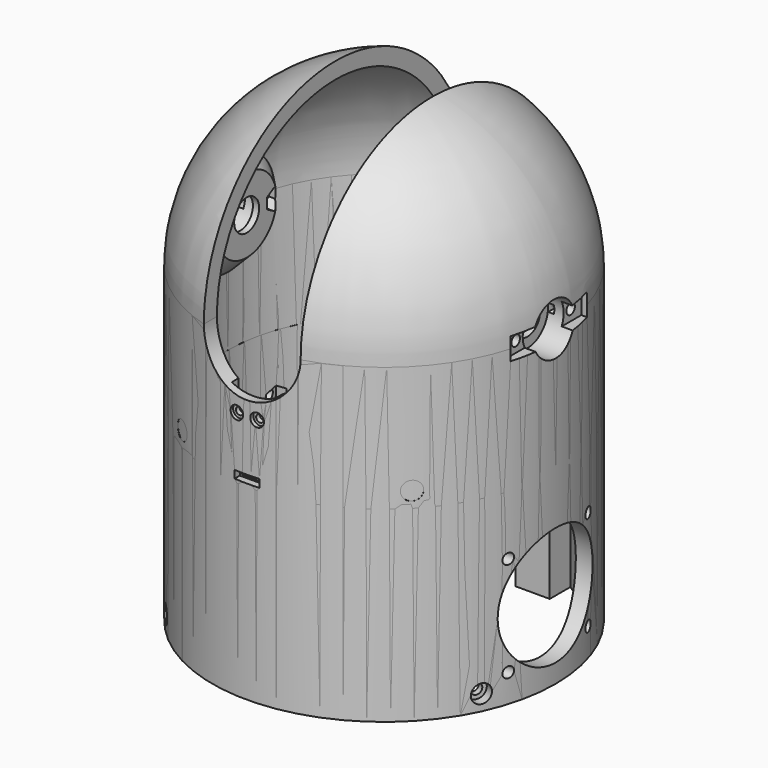
from build123d import *

# Parameters (mm, degrees)
CYLINDER_R               = 2.95
CYLINDER_DEPTH           = 7
CYLINDER001_R            = 1.7
CYLINDER001_DEPTH        = 30
PRISM_DEPTH              = 12
CYLINDER1003_R           = 8.2
CYLINDER1003_DEPTH       = 15
CLONE139_PLACEMENT_ANGLE = 30
BOX251_W                 = 30.6
BOX251_H                 = 7
BOX251_DEPTH             = 4
CYLINDER1015_R           = 5
CYLINDER1015_DEPTH       = 10
CLONE140_PLACEMENT_ANGLE = 30
CYLINDER1061_R           = 2.1
CYLINDER1061_DEPTH       = 7
CYLINDER1062_R           = 1.2
CYLINDER1062_DEPTH       = 30
CLONE444_PITCH_ANGLE     = -90
CLONE443_PITCH_ANGLE     = -90
CLONE445_PITCH_ANGLE     = -90
CYLINDER1064_R           = 19
CYLINDER1064_DEPTH       = 20
CLONE442_PITCH_ANGLE     = -90
CLONE_PITCH_ANGLE        = -90
CLONE446_PITCH_ANGLE     = -90
CLONE447_PITCH_ANGLE     = -90
CLONE448_PITCH_ANGLE     = -90
BOX270_W                 = 8
BOX270_H                 = 2.5
BOX270_DEPTH             = 2.5
BOX271_W                 = 6.5
BOX271_H                 = 3.5
BOX271_DEPTH             = 1.5
CLONE439_ROLL_ANGLE      = -90
BOX269_W                 = 14
BOX269_H                 = 10
BOX269_DEPTH             = 15
CLONE438_ROLL_ANGLE      = -90
CLONE281_PITCH_ANGLE     = 90
CLONE281_PLACEMENT_ANGLE = 45.000049
CLONE282_PITCH_ANGLE     = 90
CLONE282_PLACEMENT_ANGLE = -134.999951
CLONE283_PITCH_ANGLE     = 90
CLONE283_PLACEMENT_ANGLE = -24.999953
CLONE284_PITCH_ANGLE     = 90
CLONE284_PLACEMENT_ANGLE = 155.000022
PAD038_DEPTH             = 55
PAD037_DEPTH             = 55
PAD036_DEPTH             = 55
CLONE279_ROLL_ANGLE      = 90
CLONE279_PLACEMENT_ANGLE = 90
CLONE280_ROLL_ANGLE      = -90
CLONE280_PLACEMENT_ANGLE = 90
CLONE278_PLACEMENT_ANGLE = 180
PAD035_DEPTH             = 57.5
PAD002_DEPTH             = 2.7
CLONE453_PITCH_ANGLE     = -90
CLONE453_PLACEMENT_ANGLE = -44
CLONE457_PITCH_ANGLE     = -90
CLONE457_PLACEMENT_ANGLE = 62
CLONE456_PITCH_ANGLE     = -90
CLONE456_PLACEMENT_ANGLE = 136
CLONE455_PITCH_ANGLE     = -90
CLONE455_PLACEMENT_ANGLE = -118
CLONE458_PITCH_ANGLE     = -90
CLONE458_PLACEMENT_ANGLE = -44
CLONE460_PITCH_ANGLE     = -90
CLONE460_PLACEMENT_ANGLE = 136
CLONE459_PITCH_ANGLE     = -90
CLONE459_PLACEMENT_ANGLE = -118
CLONE461_PITCH_ANGLE     = -90
CLONE461_PLACEMENT_ANGLE = 62
BOX272_W                 = 23
BOX272_H                 = 17
BOX272_DEPTH             = 15.5
CYLINDER1068_R           = 50
CYLINDER1068_DEPTH       = 15.5
BOX_W                    = 23
BOX_H                    = 13
BOX_DEPTH                = 15.5
CYLINDER1067_R           = 50
CYLINDER1067_DEPTH       = 15.5
CLONE451_PLACEMENT_ANGLE = 180
CLONE452_PLACEMENT_ANGLE = 180
CYLINDER1066_R           = 60
CYLINDER1066_DEPTH       = 95
CLONE464_PITCH_ANGLE     = 90
CLONE464_PLACEMENT_ANGLE = -118
CLONE463_PITCH_ANGLE     = 90
CLONE463_PLACEMENT_ANGLE = 62
CLONE465_PITCH_ANGLE     = 90
CLONE465_PLACEMENT_ANGLE = 136
CLONE462_PITCH_ANGLE     = 90
CLONE462_PLACEMENT_ANGLE = -44
CYLINDER1065_R           = 60
CYLINDER1065_DEPTH       = 60


with BuildPart() as m3bolthead:
    # Cylinder → Cylinder (new body)
    with BuildSketch(Plane.XY):
        Circle(CYLINDER_R)
    extrude(amount=CYLINDER_DEPTH)


with BuildPart() as m3bolt:
    # Cylinder001 → Cylinder001 (new body)
    with BuildSketch(Plane.XY.offset(6)):
        Circle(CYLINDER001_R)
    extrude(amount=CYLINDER001_DEPTH)

    # Fusion: union M3BoltHead
    add(m3bolthead.part)


with BuildPart() as m3nut:
    # Prism → Prism (new body)
    with BuildSketch(Plane.XY):
        Polygon((3.35, 0), (1.675, 2.901185), (-1.675, 2.901185), (-3.35, 0), (-1.675, -2.901185), (1.675, -2.901185), align=None)
    extrude(amount=PRISM_DEPTH)


with BuildPart() as obj1:
    # Sketch016 → Revolution003 (revolve)
    with BuildSketch(Plane.XY):
        Polygon((0, 0), (0, 18), (6, 12), (6, 0), align=None)
    revolve(axis=Axis((0, 0, 0), (1, 0, 0)))


with BuildPart() as obj2:
    # Cylinder1003 → Cylinder1003 (new body)
    with BuildSketch(Plane.XY):
        Circle(CYLINDER1003_R)
    extrude(amount=CYLINDER1003_DEPTH)


with BuildPart() as clone_of_m3nut005:
    # Clone139 base: copy of M3Nut
    add(m3nut.part)


with BuildPart() as clone_of_m3nut005_1:
    # Clone139 placement: moved
    add(clone_of_m3nut005.part.moved(Location((11, 0, 7))).rotate(Axis((11, 0, 7), (0, 0, 1)), CLONE139_PLACEMENT_ANGLE))


with BuildPart() as cube015:
    # Box251 → Box251 (new body)
    with BuildSketch(Plane(origin=(-15.3, -3.5, 0), x_dir=(1, 0, 0), z_dir=(0, 0, 1))):
        with Locations((15.3, 3.5)):
            Rectangle(BOX251_W, BOX251_H)
    extrude(amount=BOX251_DEPTH)


with BuildPart() as clone_of_m3bolt039:
    # Clone137 base: copy of M3Bolt
    add(m3bolt.part)


with BuildPart() as clone_of_m3bolt039_1:
    # Clone137 placement: moved
    add(clone_of_m3bolt039.part.moved(Location((11, 0, -4))))


with BuildPart() as clone_of_m3bolt040:
    # Clone138 base: copy of M3Bolt
    add(m3bolt.part)


with BuildPart() as clone_of_m3bolt040_1:
    # Clone138 placement: moved
    add(clone_of_m3bolt040.part.moved(Location((-11, 0, -4))))


with BuildPart() as cylinder021:
    # Cylinder1015 → Cylinder1015 (new body)
    with BuildSketch(Plane.XY.offset(4)):
        Circle(CYLINDER1015_R)
    extrude(amount=CYLINDER1015_DEPTH)


with BuildPart() as obj3:
    # Clone136 base: copy of obj2
    add(obj2.part)


with BuildPart() as obj3_1:
    # Clone136 placement: moved
    add(obj3.part.moved(Location((0, 0, -6))))


with BuildPart() as obj4:
    # Clone140 base: copy of M3Nut
    add(m3nut.part)


with BuildPart() as obj4_1:
    # Clone140 placement: moved
    add(obj4.part.moved(Location((-11, 0, 7))).rotate(Axis((-11, 0, 7), (0, 0, 1)), CLONE140_PLACEMENT_ANGLE))

    # Fusion062: union Clone of M3Nut005, Cube015, Clone of M3Bolt039, Clone of M3Bolt040, Cylinder021, obj3
    add(clone_of_m3nut005_1.part)
    add(cube015.part)
    add(clone_of_m3bolt039_1.part)
    add(clone_of_m3bolt040_1.part)
    add(cylinder021.part)
    add(obj3_1.part)


with BuildPart() as m2bolthead:
    # Cylinder1061 → Cylinder1061 (new body)
    with BuildSketch(Plane.XY):
        Circle(CYLINDER1061_R)
    extrude(amount=CYLINDER1061_DEPTH)


with BuildPart() as m2bolt:
    # Cylinder1062 → Cylinder1062 (new body)
    with BuildSketch(Plane.XY.offset(6)):
        Circle(CYLINDER1062_R)
    extrude(amount=CYLINDER1062_DEPTH)

    # Fusion158: union M2BoltHead
    add(m2bolthead.part)


with BuildPart() as clone_of_m3bolt100:
    # Clone444 base: copy of M3Bolt
    add(m3bolt.part)


with BuildPart() as clone_of_m3bolt100_1:
    # Clone444 pitch: moved
    add(clone_of_m3bolt100.part.rotate(Axis((0, 0, 0), (0, 1, 0)), CLONE444_PITCH_ANGLE))


with BuildPart() as clone_of_m3bolt100_2:
    # Clone444 placement: moved
    add(clone_of_m3bolt100_1.part.moved(Location((78.76, -15.994718, 40.994755))))


with BuildPart() as clone_of_m3bolt099:
    # Clone443 base: copy of M3Bolt
    add(m3bolt.part)


with BuildPart() as clone_of_m3bolt099_1:
    # Clone443 pitch: moved
    add(clone_of_m3bolt099.part.rotate(Axis((0, 0, 0), (0, 1, 0)), CLONE443_PITCH_ANGLE))


with BuildPart() as clone_of_m3bolt099_2:
    # Clone443 placement: moved
    add(clone_of_m3bolt099_1.part.moved(Location((78.76, -15.994718, 9.005245))))


with BuildPart() as clone_of_m3bolt101:
    # Clone445 base: copy of M3Bolt
    add(m3bolt.part)


with BuildPart() as clone_of_m3bolt101_1:
    # Clone445 pitch: moved
    add(clone_of_m3bolt101.part.rotate(Axis((0, 0, 0), (0, 1, 0)), CLONE445_PITCH_ANGLE))


with BuildPart() as clone_of_m3bolt101_2:
    # Clone445 placement: moved
    add(clone_of_m3bolt101_1.part.moved(Location((78.76, 15.994793, 9.005245))))


with BuildPart() as cylinder022:
    # Cylinder1064 → Cylinder1064 (new body)
    with BuildSketch(Plane(origin=(42, 0, 25), x_dir=(0, 1, 0), z_dir=(1, 0, 0))):
        Circle(CYLINDER1064_R)
    extrude(amount=CYLINDER1064_DEPTH)


with BuildPart() as clone_of_m3bolt:
    # Clone442 base: copy of M3Bolt
    add(m3bolt.part)


with BuildPart() as clone_of_m3bolt_1:
    # Clone442 pitch: moved
    add(clone_of_m3bolt.part.rotate(Axis((0, 0, 0), (0, 1, 0)), CLONE442_PITCH_ANGLE))


with BuildPart() as clone_of_m3bolt_2:
    # Clone442 placement: moved
    add(clone_of_m3bolt_1.part.moved(Location((78.76, 15.994793, 40.994755))))


with BuildPart() as clone_of_m3nut:
    # Clone base: copy of M3Nut
    add(m3nut.part)


with BuildPart() as clone_of_m3nut_1:
    # Clone pitch: moved
    add(clone_of_m3nut.part.rotate(Axis((0, 0, 0), (0, 1, 0)), CLONE_PITCH_ANGLE))


with BuildPart() as clone_of_m3nut_2:
    # Clone placement: moved
    add(clone_of_m3nut_1.part.moved(Location((49.76, 15.994793, 9.005245))))


with BuildPart() as clone_of_m3nut007:
    # Clone446 base: copy of M3Nut
    add(m3nut.part)


with BuildPart() as clone_of_m3nut007_1:
    # Clone446 pitch: moved
    add(clone_of_m3nut007.part.rotate(Axis((0, 0, 0), (0, 1, 0)), CLONE446_PITCH_ANGLE))


with BuildPart() as clone_of_m3nut007_2:
    # Clone446 placement: moved
    add(clone_of_m3nut007_1.part.moved(Location((49.76, -15.994718, 9.005245))))


with BuildPart() as clone_of_m3nut008:
    # Clone447 base: copy of M3Nut
    add(m3nut.part)


with BuildPart() as clone_of_m3nut008_1:
    # Clone447 pitch: moved
    add(clone_of_m3nut008.part.rotate(Axis((0, 0, 0), (0, 1, 0)), CLONE447_PITCH_ANGLE))


with BuildPart() as clone_of_m3nut008_2:
    # Clone447 placement: moved
    add(clone_of_m3nut008_1.part.moved(Location((49.76, 15.994793, 40.994755))))


with BuildPart() as fanholes:
    # Clone448 base: copy of M3Nut
    add(m3nut.part)


with BuildPart() as fanholes_1:
    # Clone448 pitch: moved
    add(fanholes.part.rotate(Axis((0, 0, 0), (0, 1, 0)), CLONE448_PITCH_ANGLE))


with BuildPart() as fanholes_2:
    # Clone448 placement: moved
    add(fanholes_1.part.moved(Location((49.76, -15.994718, 40.994755))))

    # Fusion169: union Clone of M3Bolt100, Clone of M3Bolt099, Clone of M3Bolt101, Cylinder022, Clone of M3Bolt, Clone of M3Nut, Clone of M3Nut007, Clone of M3Nut008
    add(clone_of_m3bolt100_2.part)
    add(clone_of_m3bolt099_2.part)
    add(clone_of_m3bolt101_2.part)
    add(cylinder022.part)
    add(clone_of_m3bolt_2.part)
    add(clone_of_m3nut_2.part)
    add(clone_of_m3nut007_2.part)
    add(clone_of_m3nut008_2.part)


with BuildPart() as part_mirroring:
    # Part__Mirroring: instance of FanHoles
    add(fanholes_2.part.mirror(Plane(origin=(0, 0, 0), x_dir=(0, -1, 0), z_dir=(1, 0, 0))))


with BuildPart() as fusion170:
    # Fusion170 base: copy of FanHoles
    add(fanholes_2.part)

    # Fusion170: union Part__Mirroring
    add(part_mirroring.part)


with BuildPart() as cube032:
    # Box270 → Box270 (new body)
    with BuildSketch(Plane.XY):
        with Locations((4, 1.25)):
            Rectangle(BOX270_W, BOX270_H)
    extrude(amount=BOX270_DEPTH)


with BuildPart() as fusion168:
    # Box271 → Box271 (new body)
    with BuildSketch(Plane(origin=(0.75, 2, 0.5), x_dir=(1, 0, 0), z_dir=(0, 0, 1))):
        with Locations((3.25, 1.75)):
            Rectangle(BOX271_W, BOX271_H)
    extrude(amount=BOX271_DEPTH)

    # Fusion168: union Cube032
    add(cube032.part)


with BuildPart() as fusion168_1:
    # Fusion168 placement: moved
    add(fusion168.part.moved(Location((-4, -55.25, 61))))


with BuildPart() as clone439:
    # Clone439 base: copy of M2Bolt
    add(m2bolt.part)


with BuildPart() as clone439_1:
    # Clone439 roll: moved
    add(clone439.part.rotate(Axis((0, 0, 0), (1, 0, 0)), CLONE439_ROLL_ANGLE))


with BuildPart() as clone439_2:
    # Clone439 placement: moved
    add(clone439_1.part.moved(Location((3.25, -60.75, 79.9))))


with BuildPart() as cube031:
    # Box269 → Box269 (new body)
    with BuildSketch(Plane(origin=(-7, -52.25, 72), x_dir=(1, 0, 0), z_dir=(0, 0, 1))):
        with Locations((7, 5)):
            Rectangle(BOX269_W, BOX269_H)
    extrude(amount=BOX269_DEPTH)


with BuildPart() as fusion164:
    # Clone438 base: copy of M2Bolt
    add(m2bolt.part)


with BuildPart() as fusion164_1:
    # Clone438 roll: moved
    add(fusion164.part.rotate(Axis((0, 0, 0), (1, 0, 0)), CLONE438_ROLL_ANGLE))


with BuildPart() as fusion164_2:
    # Clone438 placement: moved
    add(fusion164_1.part.moved(Location((-3.25, -60.75, 79.9))))

    # Fusion164: union Clone439, Cube031
    add(clone439_2.part)
    add(cube031.part)


with BuildPart() as clone_of_m3bolt095:
    # Clone281 base: copy of M3Bolt
    add(m3bolt.part)


with BuildPart() as clone_of_m3bolt095_1:
    # Clone281 pitch: moved
    add(clone_of_m3bolt095.part.rotate(Axis((0, 0, 0), (0, 1, 0)), CLONE281_PITCH_ANGLE))


with BuildPart() as clone_of_m3bolt095_2:
    # Clone281 placement: moved
    add(clone_of_m3bolt095_1.part.moved(Location((-41.719293, -41.719293, 5))).rotate(Axis((-41.719293, -41.719293, 5), (0, 0, 1)), CLONE281_PLACEMENT_ANGLE))


with BuildPart() as clone_of_m3bolt096:
    # Clone282 base: copy of M3Bolt
    add(m3bolt.part)


with BuildPart() as clone_of_m3bolt096_1:
    # Clone282 pitch: moved
    add(clone_of_m3bolt096.part.rotate(Axis((0, 0, 0), (0, 1, 0)), CLONE282_PITCH_ANGLE))


with BuildPart() as clone_of_m3bolt096_2:
    # Clone282 placement: moved
    add(clone_of_m3bolt096_1.part.moved(Location((41.719293, 41.719293, 5))).rotate(Axis((41.719293, 41.719293, 5), (0, 0, 1)), CLONE282_PLACEMENT_ANGLE))


with BuildPart() as clone_of_m3bolt097:
    # Clone283 base: copy of M3Bolt
    add(m3bolt.part)


with BuildPart() as clone_of_m3bolt097_1:
    # Clone283 pitch: moved
    add(clone_of_m3bolt097.part.rotate(Axis((0, 0, 0), (0, 1, 0)), CLONE283_PITCH_ANGLE))


with BuildPart() as clone_of_m3bolt097_2:
    # Clone283 placement: moved
    add(clone_of_m3bolt097_1.part.moved(Location((-53.472192, 24.934482, 5))).rotate(Axis((-53.472192, 24.934482, 5), (0, 0, 1)), CLONE283_PLACEMENT_ANGLE))


with BuildPart() as fusion099:
    # Clone284 base: copy of M3Bolt
    add(m3bolt.part)


with BuildPart() as fusion099_1:
    # Clone284 pitch: moved
    add(fusion099.part.rotate(Axis((0, 0, 0), (0, 1, 0)), CLONE284_PITCH_ANGLE))


with BuildPart() as fusion099_2:
    # Clone284 placement: moved
    add(fusion099_1.part.moved(Location((53.472192, -24.934482, 5))).rotate(Axis((53.472192, -24.934482, 5), (0, 0, 1)), CLONE284_PLACEMENT_ANGLE))

    # Fusion099: union Clone of M3Bolt095, Clone of M3Bolt096, Clone of M3Bolt097
    add(clone_of_m3bolt095_2.part)
    add(clone_of_m3bolt096_2.part)
    add(clone_of_m3bolt097_2.part)


with BuildPart() as pad038:
    # Sketch055 → Pad038 (new body)
    with BuildSketch(Plane.XY):
        Polygon((-24.1, 45.35), (-19.1, 45.35), (-19.1, 40.35), (-24.1, 40.35), (-24.1, 35.35), (-27.9, 35.35), (-27.9, 43), align=None)
        Polygon((27.9, -35.35), (24.1, -35.35), (24.1, -40.35), (19.1, -40.35), (19.1, -45.35), (24.1, -45.35), (27.9, -43), align=None)
    extrude(amount=PAD038_DEPTH)


with BuildPart() as pad037:
    # Sketch054 → Pad037 (new body)
    with BuildSketch(Plane.XY):
        Polygon((-32, 39.5), (-32, 29.5), (-26.041232, 34.5), align=None)
        Polygon((12.041232, 42.5), (18, 47.5), (18, 37.5), align=None)
        Polygon((-18, -37.5), (-18, -47.5), (-12.041232, -42.5), align=None)
        Polygon((32, -29.5), (32, -39.5), (26.041232, -34.5), align=None)
    extrude(amount=PAD037_DEPTH)


with BuildPart() as pad036:
    # Sketch053 → Pad036 (new body)
    with BuildSketch(Plane.XY):
        with BuildLine():
            ThreePointArc((-27.9, 42.09323), (-33.764088, 37.553114), (-38.9, 32.203105))
            Line((-38.9, 27), (-38.9, 32.203105))
            Line((-27.9, 27), (-38.9, 27))
            Line((-27.9, 42.09323), (-27.9, 27))
        make_face()
        with BuildLine():
            Line((25.1, 43.820543), (25.1, 35))
            Line((25.1, 35), (14.1, 35))
            Line((14.1, 35), (14.1, 48.491649))
            ThreePointArc((25.1, 43.820543), (19.738663, 46.482633), (14.1, 48.491649))
        make_face()
        with BuildLine():
            Line((27.9, -27), (38.9, -27))
            Line((38.9, -27), (38.9, -32.203105))
            ThreePointArc((27.9, -42.09323), (33.764088, -37.553114), (38.9, -32.203105))
            Line((27.9, -42.09323), (27.9, -27))
        make_face()
        with BuildLine():
            Line((-25.1, -35), (-14.1, -35))
            Line((-14.1, -35), (-14.1, -48.491649))
            ThreePointArc((-25.1, -43.820543), (-19.738663, -46.482633), (-14.1, -48.491649))
            Line((-25.1, -43.820543), (-25.1, -35))
        make_face()
    extrude(amount=PAD036_DEPTH)


with BuildPart() as obj5:
    # Clone279 base: copy of obj4
    add(obj4_1.part)


with BuildPart() as obj5_1:
    # Clone279 roll: moved
    add(obj5.part.rotate(Axis((0, 0, 0), (1, 0, 0)), CLONE279_ROLL_ANGLE))


with BuildPart() as obj5_2:
    # Clone279 placement: moved
    add(obj5_1.part.moved(Location((-55, 0, 100))).rotate(Axis((-55, 0, 100), (0, 0, 1)), CLONE279_PLACEMENT_ANGLE))


with BuildPart() as fusion096:
    # Clone280 base: copy of obj4
    add(obj4_1.part)


with BuildPart() as fusion096_1:
    # Clone280 roll: moved
    add(fusion096.part.rotate(Axis((0, 0, 0), (1, 0, 0)), CLONE280_ROLL_ANGLE))


with BuildPart() as fusion096_2:
    # Clone280 placement: moved
    add(fusion096_1.part.moved(Location((55, 0, 100))).rotate(Axis((55, 0, 100), (0, 0, 1)), CLONE280_PLACEMENT_ANGLE))

    # Fusion096: union obj5
    add(obj5_2.part)


with BuildPart() as obj6:
    # Clone278 base: copy of obj1
    add(obj1.part)


with BuildPart() as obj6_1:
    # Clone278 placement: moved
    add(obj6.part.moved(Location((50.0001, 0, 100))).rotate(Axis((50.0001, 0, 100), (0, 0, 1)), CLONE278_PLACEMENT_ANGLE))


with BuildPart() as pad035:
    # Sketch052 → Pad035 (new body, symmetric)
    with BuildSketch(Plane(origin=(0, 0, 84.5), x_dir=(1, 0, 0), z_dir=(0, -1, 0))):
        with BuildLine():
            ThreePointArc((-15.5, 15.5), (-2.1e-05, 0), (15.5, 15.499957))
            Line((15.5, 15.499957), (15.5, 75.499957))
            Line((15.5, 75.499957), (-15.5, 75.499957))
            Line((-15.5, 75.499957), (-15.5, 15.5))
        make_face()
    extrude(amount=PAD035_DEPTH, both=True)


with BuildPart() as cut155:
    # Sketch051 → Revolution012 (revolve)
    with BuildSketch(Plane.XZ):
        with BuildLine():
            Line((50, 100), (50, 0))
            Line((50, 0), (55, 0))
            Line((55, 0), (55, 100))
            ThreePointArc((55, 100), (38.890873, 138.890873), (0, 155))
            Line((0, 150), (0, 155))
            ThreePointArc((50, 100), (35.355339, 135.355339), (0, 150))
        make_face()
    revolve(axis=Axis((0, 0, 0), (0, 0, 1)))

    # Cut081: cut Pad035
    add(pad035.part, mode=Mode.SUBTRACT)


with BuildPart() as obj7:
    # Clone277 base: copy of obj1
    add(obj1.part)


with BuildPart() as obj7_1:
    # Clone277 placement: moved
    add(obj7.part.moved(Location((-50.0001, 0, 100))))

    # Fusion097: union obj6, Cut155
    add(obj6_1.part)
    add(cut155.part)

    # Cut082: cut Fusion096
    add(fusion096_2.part, mode=Mode.SUBTRACT)

    # Fusion098: union Pad036
    add(pad036.part)

    # Cut083: cut Pad037
    add(pad037.part, mode=Mode.SUBTRACT)

    # Cut084: cut Pad038
    add(pad038.part, mode=Mode.SUBTRACT)

    # Cut085: cut Fusion099
    add(fusion099_2.part, mode=Mode.SUBTRACT)

    # Cut143: cut Fusion164
    add(fusion164_2.part, mode=Mode.SUBTRACT)

    # Cut148: cut Fusion168
    add(fusion168_1.part, mode=Mode.SUBTRACT)

    # Cut: cut Fusion170
    add(fusion170.part, mode=Mode.SUBTRACT)


with BuildPart() as m3nuthousing:
    # Sketch003 → Pad002 (new body)
    with BuildSketch(Plane.XY):
        Polygon((0, 0), (1.674316, 2.9), (21.674316, 2.9), (21.674316, -2.9), (1.674316, -2.9), align=None)
    extrude(amount=PAD002_DEPTH)


with BuildPart() as clone_of_m3bolt102:
    # Clone453 base: copy of M3Bolt
    add(m3bolt.part)


with BuildPart() as clone_of_m3bolt102_1:
    # Clone453 pitch: moved
    add(clone_of_m3bolt102.part.rotate(Axis((0, 0, 0), (0, 1, 0)), CLONE453_PITCH_ANGLE))


with BuildPart() as clone_of_m3bolt102_2:
    # Clone453 placement: moved
    add(clone_of_m3bolt102_1.part.moved(Location((-17.264155, 16.671801, 65))).rotate(Axis((-17.264155, 16.671801, 65), (0, 0, 1)), CLONE453_PLACEMENT_ANGLE))


with BuildPart() as clone_of_m3bolt105:
    # Clone457 base: copy of M3Bolt
    add(m3bolt.part)


with BuildPart() as clone_of_m3bolt105_1:
    # Clone457 pitch: moved
    add(clone_of_m3bolt105.part.rotate(Axis((0, 0, 0), (0, 1, 0)), CLONE457_PITCH_ANGLE))


with BuildPart() as clone_of_m3bolt105_2:
    # Clone457 placement: moved
    add(clone_of_m3bolt105_1.part.moved(Location((-11.267318, -21.190742, 65))).rotate(Axis((-11.267318, -21.190742, 65), (0, 0, 1)), CLONE457_PLACEMENT_ANGLE))


with BuildPart() as clone_of_m3bolt104:
    # Clone456 base: copy of M3Bolt
    add(m3bolt.part)


with BuildPart() as clone_of_m3bolt104_1:
    # Clone456 pitch: moved
    add(clone_of_m3bolt104.part.rotate(Axis((0, 0, 0), (0, 1, 0)), CLONE456_PITCH_ANGLE))


with BuildPart() as clone_of_m3bolt104_2:
    # Clone456 placement: moved
    add(clone_of_m3bolt104_1.part.moved(Location((17.264155, -16.671801, 65))).rotate(Axis((17.264155, -16.671801, 65), (0, 0, 1)), CLONE456_PLACEMENT_ANGLE))


with BuildPart() as clone_of_m3bolt103:
    # Clone455 base: copy of M3Bolt
    add(m3bolt.part)


with BuildPart() as clone_of_m3bolt103_1:
    # Clone455 pitch: moved
    add(clone_of_m3bolt103.part.rotate(Axis((0, 0, 0), (0, 1, 0)), CLONE455_PITCH_ANGLE))


with BuildPart() as clone_of_m3bolt103_2:
    # Clone455 placement: moved
    add(clone_of_m3bolt103_1.part.moved(Location((11.267318, 21.190742, 65))).rotate(Axis((11.267318, 21.190742, 65), (0, 0, 1)), CLONE455_PLACEMENT_ANGLE))


with BuildPart() as clone_of_m3nuthousing:
    # Clone458 base: copy of M3NutHousing
    add(m3nuthousing.part)


with BuildPart() as clone_of_m3nuthousing_1:
    # Clone458 pitch: moved
    add(clone_of_m3nuthousing.part.rotate(Axis((0, 0, 0), (0, 1, 0)), CLONE458_PITCH_ANGLE))


with BuildPart() as clone_of_m3nuthousing_2:
    # Clone458 placement: moved
    add(clone_of_m3nuthousing_1.part.moved(Location((-32.370291, 31.259627, 61.5))).rotate(Axis((-32.370291, 31.259627, 61.5), (0, 0, 1)), CLONE458_PLACEMENT_ANGLE))


with BuildPart() as clone_of_m3nuthousing002:
    # Clone460 base: copy of M3NutHousing
    add(m3nuthousing.part)


with BuildPart() as clone_of_m3nuthousing002_1:
    # Clone460 pitch: moved
    add(clone_of_m3nuthousing002.part.rotate(Axis((0, 0, 0), (0, 1, 0)), CLONE460_PITCH_ANGLE))


with BuildPart() as clone_of_m3nuthousing002_2:
    # Clone460 placement: moved
    add(clone_of_m3nuthousing002_1.part.moved(Location((32.370291, -31.259627, 61.5))).rotate(Axis((32.370291, -31.259627, 61.5), (0, 0, 1)), CLONE460_PLACEMENT_ANGLE))


with BuildPart() as clone_of_m3nuthousing001:
    # Clone459 base: copy of M3NutHousing
    add(m3nuthousing.part)


with BuildPart() as clone_of_m3nuthousing001_1:
    # Clone459 pitch: moved
    add(clone_of_m3nuthousing001.part.rotate(Axis((0, 0, 0), (0, 1, 0)), CLONE459_PITCH_ANGLE))


with BuildPart() as clone_of_m3nuthousing001_2:
    # Clone459 placement: moved
    add(clone_of_m3nuthousing001_1.part.moved(Location((21.12622, 39.732642, 61.5))).rotate(Axis((21.12622, 39.732642, 61.5), (0, 0, 1)), CLONE459_PLACEMENT_ANGLE))


with BuildPart() as fusion171:
    # Clone461 base: copy of M3NutHousing
    add(m3nuthousing.part)


with BuildPart() as fusion171_1:
    # Clone461 pitch: moved
    add(fusion171.part.rotate(Axis((0, 0, 0), (0, 1, 0)), CLONE461_PITCH_ANGLE))


with BuildPart() as fusion171_2:
    # Clone461 placement: moved
    add(fusion171_1.part.moved(Location((-21.12622, -39.732642, 61.5))).rotate(Axis((-21.12622, -39.732642, 61.5), (0, 0, 1)), CLONE461_PLACEMENT_ANGLE))

    # Fusion171: union Clone of M3Bolt102, Clone of M3Bolt105, Clone of M3Bolt104, Clone of M3Bolt103, Clone of M3NutHousing, Clone of M3NutHousing002, Clone of M3NutHousing001
    add(clone_of_m3bolt102_2.part)
    add(clone_of_m3bolt105_2.part)
    add(clone_of_m3bolt104_2.part)
    add(clone_of_m3bolt103_2.part)
    add(clone_of_m3nuthousing_2.part)
    add(clone_of_m3nuthousing002_2.part)
    add(clone_of_m3nuthousing001_2.part)


with BuildPart() as cube034:
    # Box272 → Box272 (new body)
    with BuildSketch(Plane(origin=(27.9, -44, 55), x_dir=(1, 0, 0), z_dir=(0, 0, 1))):
        with Locations((11.5, 8.5)):
            Rectangle(BOX272_W, BOX272_H)
    extrude(amount=BOX272_DEPTH)


with BuildPart() as common001:
    # Cylinder1068 → Cylinder1068 (new body)
    with BuildSketch(Plane.XY.offset(55)):
        Circle(CYLINDER1068_R)
    extrude(amount=CYLINDER1068_DEPTH)

    # Common001: intersect Cube034
    add(cube034.part, mode=Mode.INTERSECT)


with BuildPart() as cube:
    # Box → Box (new body)
    with BuildSketch(Plane(origin=(-37.1, -47.9707, 55), x_dir=(1, 0, 0), z_dir=(0, 0, 1))):
        with Locations((11.5, 6.5)):
            Rectangle(BOX_W, BOX_H)
    extrude(amount=BOX_DEPTH)


with BuildPart() as common:
    # Cylinder1067 → Cylinder1067 (new body)
    with BuildSketch(Plane.XY.offset(55)):
        Circle(CYLINDER1067_R)
    extrude(amount=CYLINDER1067_DEPTH)

    # Common: intersect Cube
    add(cube.part, mode=Mode.INTERSECT)


with BuildPart() as common_1:
    # Common placement: moved
    add(common.part.moved(Location((0, -0.0293, 0))))


with BuildPart() as clone_of_common:
    # Clone451 base: copy of Common
    add(common_1.part)


with BuildPart() as clone_of_common_1:
    # Clone451 placement: moved
    add(clone_of_common.part.rotate(Axis((0, 0, 0), (0, 0, 1)), CLONE451_PLACEMENT_ANGLE))


with BuildPart() as cut151:
    # Clone452 base: copy of Common001
    add(common001.part)


with BuildPart() as cut151_1:
    # Clone452 placement: moved
    add(cut151.part.rotate(Axis((0, 0, 0), (0, 0, 1)), CLONE452_PLACEMENT_ANGLE))

    # Fusion172: union Common001, Common, Clone of Common
    add(common001.part)
    add(common_1.part)
    add(clone_of_common_1.part)

    # Cut151: cut Fusion171
    add(fusion171_2.part, mode=Mode.SUBTRACT)


with BuildPart() as cylinder023:
    # Cylinder1066 → Cylinder1066 (new body)
    with BuildSketch(Plane.XY.offset(60)):
        Circle(CYLINDER1066_R)
    extrude(amount=CYLINDER1066_DEPTH)


with BuildPart() as obj8:
    # Clone450 base: copy of obj7
    add(obj7_1.part)

    # Cut150: cut Cylinder023
    add(cylinder023.part, mode=Mode.SUBTRACT)

    # Fusion173: union Cut151
    add(cut151_1.part)


with BuildPart() as clone_of_m3bolt108:
    # Clone464 base: copy of M3Bolt
    add(m3bolt.part)


with BuildPart() as clone_of_m3bolt108_1:
    # Clone464 pitch: moved
    add(clone_of_m3bolt108.part.rotate(Axis((0, 0, 0), (0, 1, 0)), CLONE464_PITCH_ANGLE))


with BuildPart() as clone_of_m3bolt108_2:
    # Clone464 placement: moved
    add(clone_of_m3bolt108_1.part.moved(Location((27.933558, 52.535382, 65))).rotate(Axis((27.933558, 52.535382, 65), (0, 0, 1)), CLONE464_PLACEMENT_ANGLE))


with BuildPart() as clone_of_m3bolt107:
    # Clone463 base: copy of M3Bolt
    add(m3bolt.part)


with BuildPart() as clone_of_m3bolt107_1:
    # Clone463 pitch: moved
    add(clone_of_m3bolt107.part.rotate(Axis((0, 0, 0), (0, 1, 0)), CLONE463_PITCH_ANGLE))


with BuildPart() as clone_of_m3bolt107_2:
    # Clone463 placement: moved
    add(clone_of_m3bolt107_1.part.moved(Location((-27.933558, -52.535382, 65))).rotate(Axis((-27.933558, -52.535382, 65), (0, 0, 1)), CLONE463_PLACEMENT_ANGLE))


with BuildPart() as clone_of_m3bolt109:
    # Clone465 base: copy of M3Bolt
    add(m3bolt.part)


with BuildPart() as clone_of_m3bolt109_1:
    # Clone465 pitch: moved
    add(clone_of_m3bolt109.part.rotate(Axis((0, 0, 0), (0, 1, 0)), CLONE465_PITCH_ANGLE))


with BuildPart() as clone_of_m3bolt109_2:
    # Clone465 placement: moved
    add(clone_of_m3bolt109_1.part.moved(Location((42.800718, -41.332173, 65))).rotate(Axis((42.800718, -41.332173, 65), (0, 0, 1)), CLONE465_PLACEMENT_ANGLE))


with BuildPart() as fusion174:
    # Clone462 base: copy of M3Bolt
    add(m3bolt.part)


with BuildPart() as fusion174_1:
    # Clone462 pitch: moved
    add(fusion174.part.rotate(Axis((0, 0, 0), (0, 1, 0)), CLONE462_PITCH_ANGLE))


with BuildPart() as fusion174_2:
    # Clone462 placement: moved
    add(fusion174_1.part.moved(Location((-42.800718, 41.332173, 65))).rotate(Axis((-42.800718, 41.332173, 65), (0, 0, 1)), CLONE462_PLACEMENT_ANGLE))

    # Fusion174: union Clone of M3Bolt108, Clone of M3Bolt107, Clone of M3Bolt109
    add(clone_of_m3bolt108_2.part)
    add(clone_of_m3bolt107_2.part)
    add(clone_of_m3bolt109_2.part)


with BuildPart() as cylinder:
    # Cylinder1065 → Cylinder1065 (new body)
    with BuildSketch(Plane.XY):
        Circle(CYLINDER1065_R)
    extrude(amount=CYLINDER1065_DEPTH)


with BuildPart() as obj9:
    # Clone449 base: copy of obj7
    add(obj7_1.part)

    # Cut149: cut Cylinder
    add(cylinder.part, mode=Mode.SUBTRACT)

    # Cut152: cut Fusion174
    add(fusion174_2.part, mode=Mode.SUBTRACT)


solid = Compound([m3bolt.part, m3nut.part, obj1.part, obj2.part, obj4_1.part, m2bolt.part, obj7_1.part, m3nuthousing.part, obj8.part, obj9.part])
